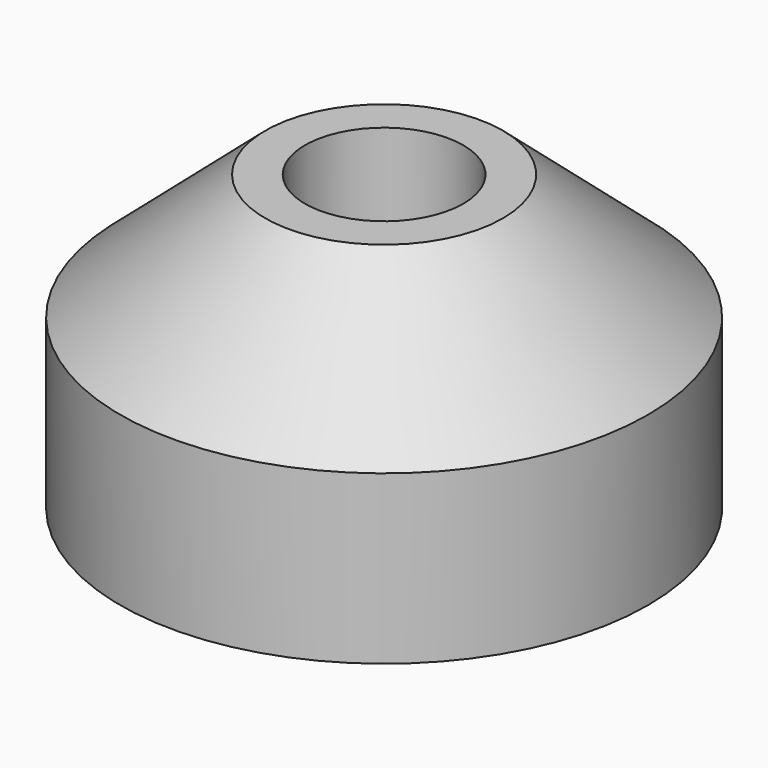
from build123d import *

# Parameters (mm, degrees)
F0_R      = 5
F2_DEPTH  = 3.175
F2_FACE_R = 5
F3_R      = 2.25
F5_R      = 1.5
F6_DEPTH  = 25.4


with BuildPart() as f2:
    # F0 (on Top) → F2 (new body)
    with BuildSketch(Plane.XY):
        Circle(F0_R)
    extrude(amount=F2_DEPTH)

    # F2_face (on face) → F4 section 0
    with BuildSketch(Plane.XY.offset(3.175)):
        Circle(F2_FACE_R)
    # F3 (on offset) → F4 section 1
    with BuildSketch(Plane.XY.offset(5.55625)):
        Circle(F3_R)
    loft()

    # F5 (on face) → F6 (cut)
    with BuildSketch(Plane.XY.offset(5.55625)):
        Circle(F5_R)
    extrude(amount=-F6_DEPTH, mode=Mode.SUBTRACT)


solid = f2.part
